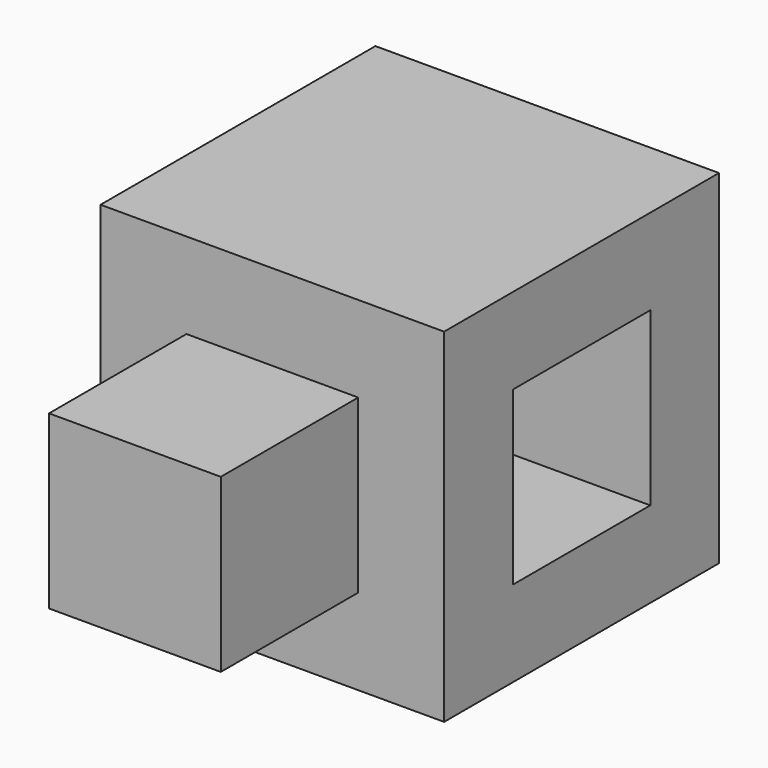
from build123d import *

# Parameters (mm, degrees)
F0_W     = 50.8
F0_H     = 50.8
F1_DEPTH = 50.8
F2_W     = 25.4
F2_H     = 25.4
F3_DEPTH = 25.4
F4_W     = 25.4
F4_H     = 25.4
F5_DEPTH = 50.801


with BuildPart() as f1:
    # F0 (on Front) → F1 (new body)
    with BuildSketch(Plane.XZ):
        Rectangle(F0_W, F0_H)
    extrude(amount=F1_DEPTH)

    # F2 (on face) → F3 (join)
    with BuildSketch(Plane.XZ.offset(50.8)):
        Rectangle(F2_W, F2_H)
    extrude(amount=F3_DEPTH)

    # F4 (on face) → F5 (cut, through all)
    with BuildSketch(Plane.YZ.offset(25.4)):
        with Locations((-25.4, 0)):
            Rectangle(F4_W, F4_H)
    extrude(amount=-F5_DEPTH, mode=Mode.SUBTRACT)


solid = f1.part
